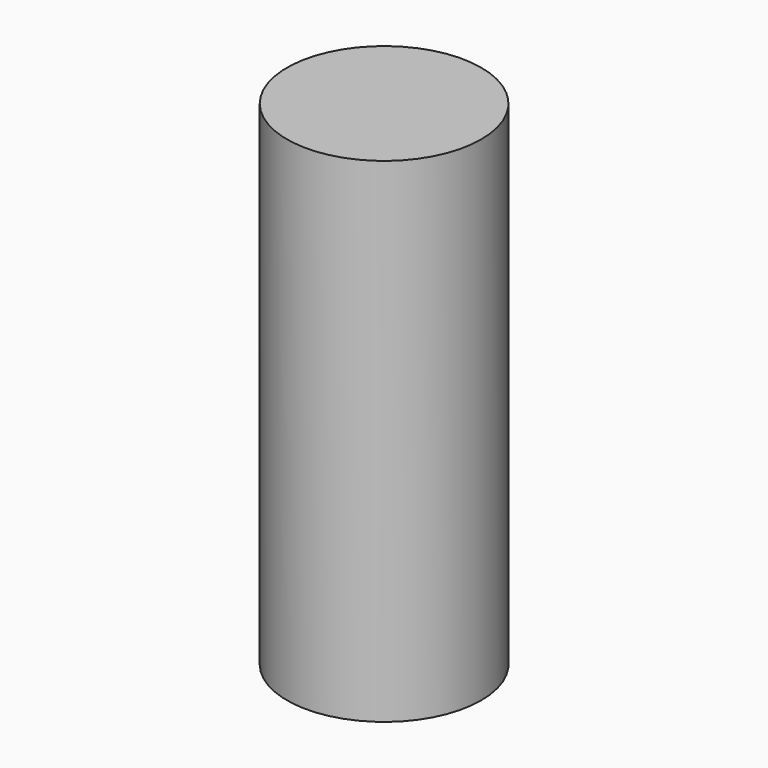
from build123d import *

# Parameters (mm, degrees)
SKETCH_R  = 2.95
PAD_DEPTH = 15


with BuildPart() as part:
    # Sketch → Pad (new body)
    with BuildSketch(Plane.XY):
        Circle(SKETCH_R)
    extrude(amount=PAD_DEPTH)


solid = part.part
